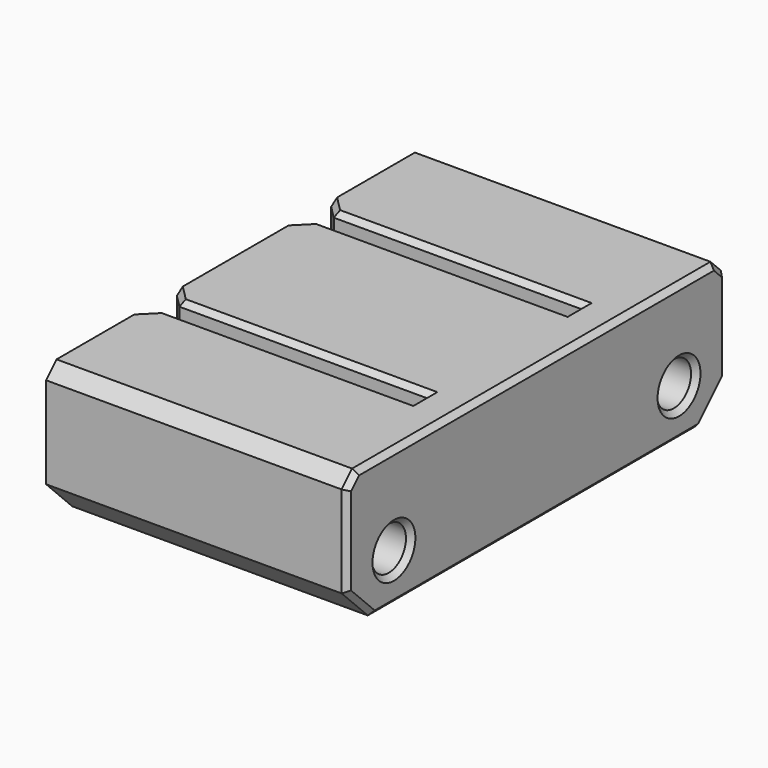
from build123d import *

# Parameters (mm, degrees)
SKETCH038_W     = 36.25
SKETCH038_H     = 10.5
PAD012_DEPTH    = 23
SKETCH039_R     = 1.65
POCKET026_DEPTH = 23.001
POCKET027_DEPTH = 20
CHAMFER014_SIZE = 1
CHAMFER015_SIZE = 1
CHAMFER016_SIZE = 2.5
CHAMFER017_SIZE = 0.4
CHAMFER018_SIZE = 0.4


with BuildPart() as part:
    # Sketch038 → Pad012 (new body)
    with BuildSketch(Plane.YZ):
        with Locations((18.125, 5.25)):
            Rectangle(SKETCH038_W, SKETCH038_H)
    extrude(amount=PAD012_DEPTH)

    # Sketch039 (on Face5 of Pad012) → Pocket026 (cut, through all)
    with BuildSketch(Plane(origin=(0, 0, 0), x_dir=(0, 1, 0), z_dir=(-1, 0, 0))):
        with Locations((4.5, -3.7)):
            Circle(SKETCH039_R)
        with Locations((31.75, -3.7)):
            Circle(SKETCH039_R)
    extrude(amount=-POCKET026_DEPTH, mode=Mode.SUBTRACT)

    # Sketch040 (on Face4 of Pocket026) → Pocket027 (cut)
    with BuildSketch(Plane(origin=(0, 0, 0), x_dir=(0, 1, 0), z_dir=(-1, 0, 0))):
        Polygon((10, -10.5), (10, -5.5), (15, -5.5), (15, -7), (11.5, -7), (11.5, -10.5), align=None)
        Polygon((24.75, -10.5), (24.75, -7), (21.25, -7), (21.25, -5.5), (26.25, -5.5), (26.25, -10.5), align=None)
    extrude(amount=-POCKET027_DEPTH, mode=Mode.SUBTRACT)

    # Chamfer014
    chamfer014_edges = [part.edges().sort_by_distance(p)[0] for p in [
        (0, 26.25, 8),
        (0, 23.75, 5.5),
        (0, 21.25, 6.25),
        (0, 23, 7),
        (0, 24.75, 8.75),
        (0, 15, 6.25),
        (0, 13.25, 7),
        (0, 12.5, 5.5),
        (0, 10, 8),
        (0, 11.5, 8.75),
    ]]
    chamfer(chamfer014_edges, length=CHAMFER014_SIZE)

    # Chamfer015
    chamfer015_edges = [part.edges().sort_by_distance(p)[0] for p in [
        (11.5, 36.25, 10.5),
        (11.5, 0, 10.5),
    ]]
    chamfer(chamfer015_edges, length=CHAMFER015_SIZE)

    # Chamfer016
    chamfer016_edges = [part.edges().sort_by_distance(p)[0] for p in [
        (11.5, 36.25, 0),
        (11.5, 0, 0),
    ]]
    chamfer(chamfer016_edges, length=CHAMFER016_SIZE)

    # Chamfer017
    chamfer017_edges = [part.edges().sort_by_distance(p)[0] for p in [
        (10.5, 26.25, 10.5),
        (0.5, 26.75, 10.5),
        (0.5, 24.25, 10.5),
        (10.5, 24.75, 10.5),
        (20, 25.5, 10.5),
        (20, 10.75, 10.5),
        (10.5, 11.5, 10.5),
        (0.5, 12, 10.5),
        (0.5, 9.5, 10.5),
        (10.5, 10, 10.5),
    ]]
    chamfer(chamfer017_edges, length=CHAMFER017_SIZE)

    # Chamfer018
    chamfer018_edges = [part.edges().sort_by_distance(p)[0] for p in [
        (23, 0, 6),
        (23, 1.25, 1.25),
        (23, 0.5, 10),
        (23, 18.125, 0),
        (23, 18.125, 10.5),
        (23, 35, 1.25),
        (23, 35.75, 10),
        (23, 36.25, 6),
        (23, 30.1, 3.7),
        (23, 2.85, 3.7),
    ]]
    chamfer(chamfer018_edges, length=CHAMFER018_SIZE)


with BuildPart() as part_1:
    # Body004006 placement: moved
    add(part.part.moved(Location((-66.5, -26, 6.5))))


solid = part_1.part
